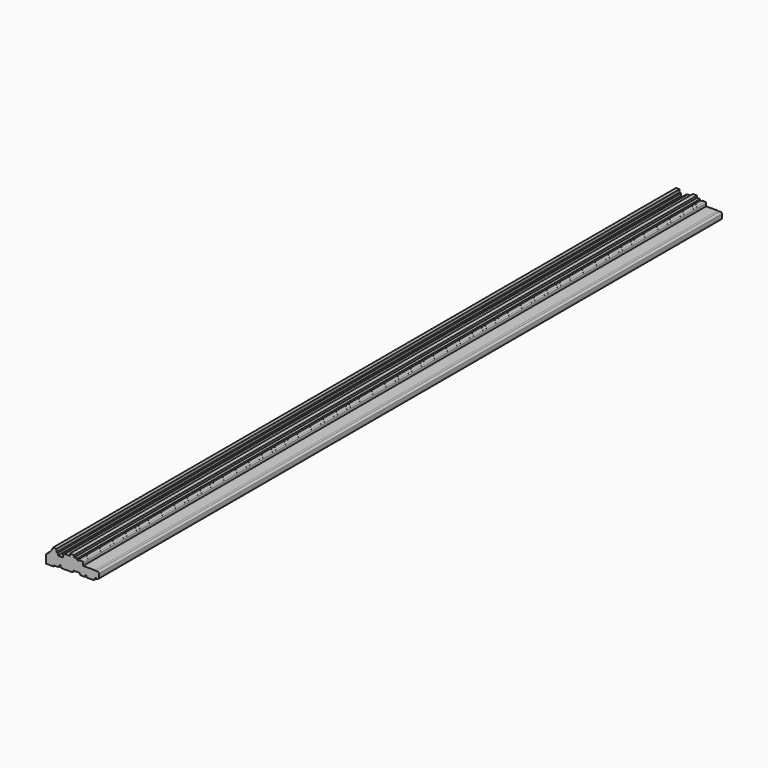
from build123d import *

# Parameters (mm, degrees)
F1_DEPTH = 1524


with BuildPart() as f1:
    # F0 (on Front) → F1 (new body)
    with BuildSketch(Plane.XZ):
        with BuildLine():
            Line((-103.378, 0), (-88.773, 0))
            Line((-88.773, 0), (-88.773, 2.0828))
            Line((-88.773, 2.0828), (-78.613, 2.0828))
            Line((-78.613, 2.0828), (-76.073, 8.001))
            Line((-76.073, 8.001), (-73.533, 2.0828))
            Line((-73.533, 2.0828), (-51.689, 2.0828))
            Line((-51.689, 2.0828), (-49.5808, 5.6388))
            Line((-49.5808, 5.6388), (-38.354, 5.6388))
            Line((-38.354, 5.6388), (-36.068, 2.0828))
            Line((-36.068, 2.0828), (-26.67, 2.0828))
            Line((-26.67, 2.0828), (-26.67, 5.6388))
            Line((-26.67, 5.6388), (-24.13, 5.6388))
            Line((-24.13, 5.6388), (-24.13, 2.0828))
            Line((-24.13, 2.0828), (-11.049, 2.0828))
            ThreePointArc((-11.049, 2.0828), (-8.803936, 3.012736), (-7.874, 5.2578))
            Line((-7.874, 5.2578), (-7.874, 6.4008))
            Line((-7.874, 6.4008), (-4.577493, 7.6708))
            Line((-4.577493, 7.6708), (-4.577493, 6.4008))
            Line((-4.577493, 6.4008), (-3.175, 6.4008))
            ThreePointArc((-3.175, 6.4008), (-0.929936, 7.330736), (0, 9.5758))
            Line((0, 9.5758), (0, 16.6878))
            ThreePointArc((0, 16.6878), (-0.929936, 18.932864), (-3.175, 19.8628))
            Line((-3.175, 19.8628), (-4.577493, 19.8628))
            Line((-4.577493, 19.8628), (-4.577493, 18.5928))
            Line((-4.577493, 18.5928), (-7.874, 19.8628))
            Line((-7.874, 19.8628), (-30.861, 19.8628))
            Line((-30.861, 19.8628), (-30.861, 25.4889))
            ThreePointArc((-30.861, 25.4889), (-31.333407, 26.629393), (-32.4739, 27.1018))
            Line((-32.4739, 27.1018), (-38.608, 27.1018))
            ThreePointArc((-38.608, 27.1018), (-39.146815, 26.878615), (-39.37, 26.3398))
            Line((-39.37, 26.3398), (-39.37, 26.162))
            Line((-39.37, 26.162), (-42.545, 26.162))
            Line((-42.545, 26.162), (-42.545, 28.702))
            Line((-42.545, 28.702), (-48.514, 28.702))
            Line((-48.514, 28.702), (-48.514, 32.766))
            Line((-48.514, 32.766), (-56.7944, 32.766))
            Line((-56.7944, 32.766), (-56.7944, 28.702))
            Line((-56.7944, 28.702), (-66.9544, 28.702))
            Line((-66.9544, 28.702), (-66.9544, 27.2288))
            Line((-66.9544, 27.2288), (-70.3834, 27.2288))
            Line((-70.3834, 27.2288), (-70.3834, 21.59))
            Line((-70.3834, 21.59), (-80.1624, 21.59))
            Line((-80.1624, 21.59), (-80.1624, 26.4922))
            Line((-80.1624, 26.4922), (-83.0072, 26.4922))
            Line((-83.0072, 26.4922), (-83.0072, 32.2834))
            Line((-83.0072, 32.2834), (-89.9922, 32.2834))
            ThreePointArc((-89.9922, 32.2834), (-95.244059, 23.296649), (-103.378, 16.801827))
            Line((-103.378, 16.801827), (-103.378, 0))
        make_face()
    extrude(amount=F1_DEPTH)


solid = f1.part
